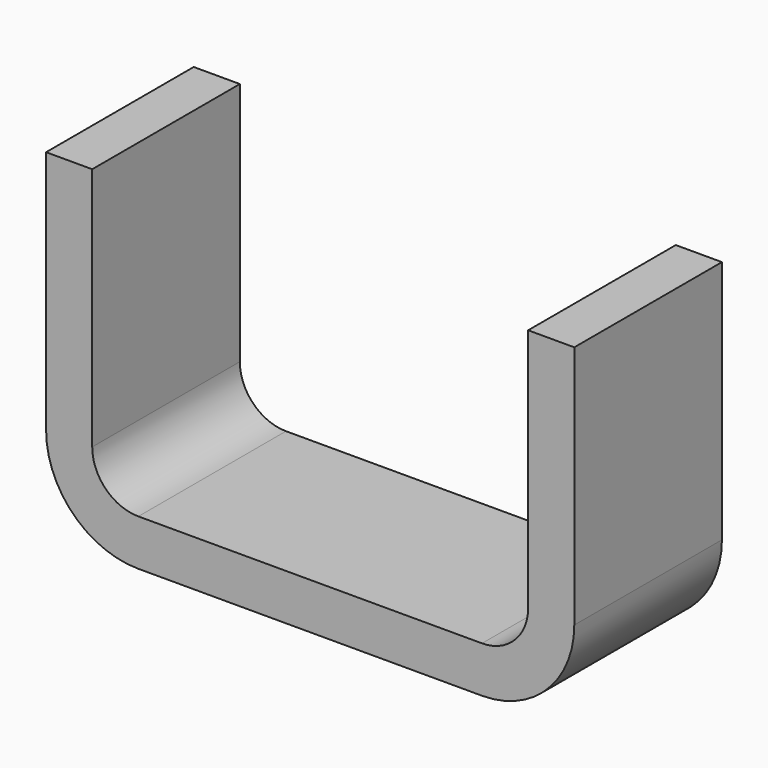
from build123d import *

# Parameters (mm, degrees)
F1_DEPTH = 6.35
F2_R     = 3.175
F3_R     = 6.35


with BuildPart() as f1:
    # F0 (on Front) → F1 (new body, symmetric)
    with BuildSketch(Plane.XZ):
        Polygon((15, 0), (0, 0), (-15, 0), (-15, 20), (-18.175, 20), (-18.175, -3.175), (0, -3.175), (18.175, -3.175), (18.175, 20), (15, 20), align=None)
    extrude(amount=F1_DEPTH, both=True)

    # F2
    f2_edges = [f1.edges().sort_by_distance(p)[0] for p in [
        (15, 0, 0),
        (-15, 0, 0),
    ]]
    fillet(f2_edges, radius=F2_R)

    # F3
    f3_edges = [f1.edges().sort_by_distance(p)[0] for p in [
        (-18.175, 0, -3.175),
        (18.175, 0, -3.175),
    ]]
    fillet(f3_edges, radius=F3_R)


solid = f1.part
